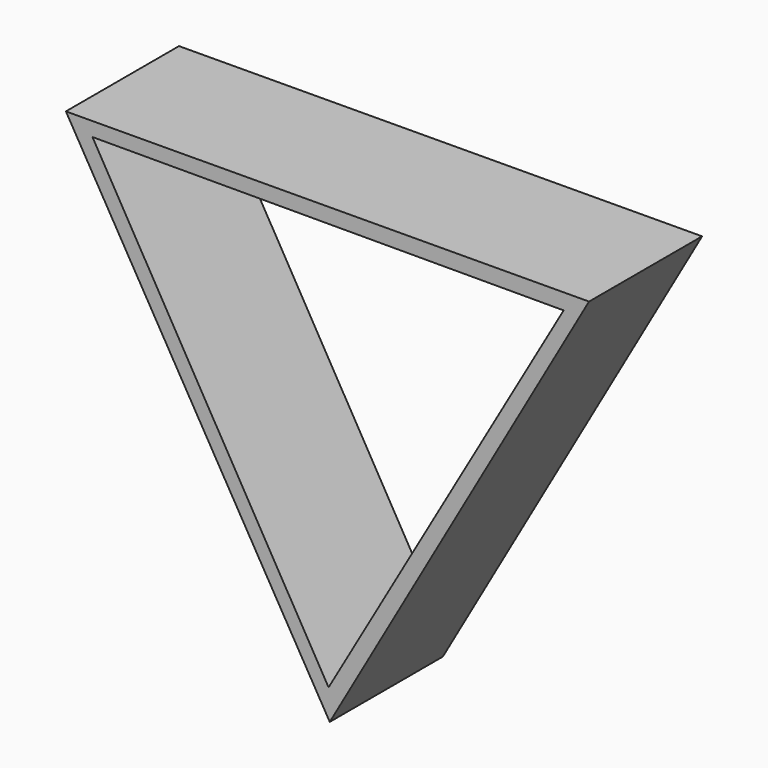
from build123d import *

# Parameters (mm, degrees)
F1_DEPTH = 76.2


with BuildPart() as f1:
    # F0 (on Front) → F1 (new body)
    with BuildSketch(Plane.XZ):
        Polygon((0.82812, -162.810256), (140.583758, 82.122301), (-141.411878, 80.687955), align=None)
        Polygon((-127.094555, 73.159466), (126.905234, 73.48738), (0.189321, -146.646846), align=None, mode=Mode.SUBTRACT)
    extrude(amount=F1_DEPTH)


solid = f1.part
